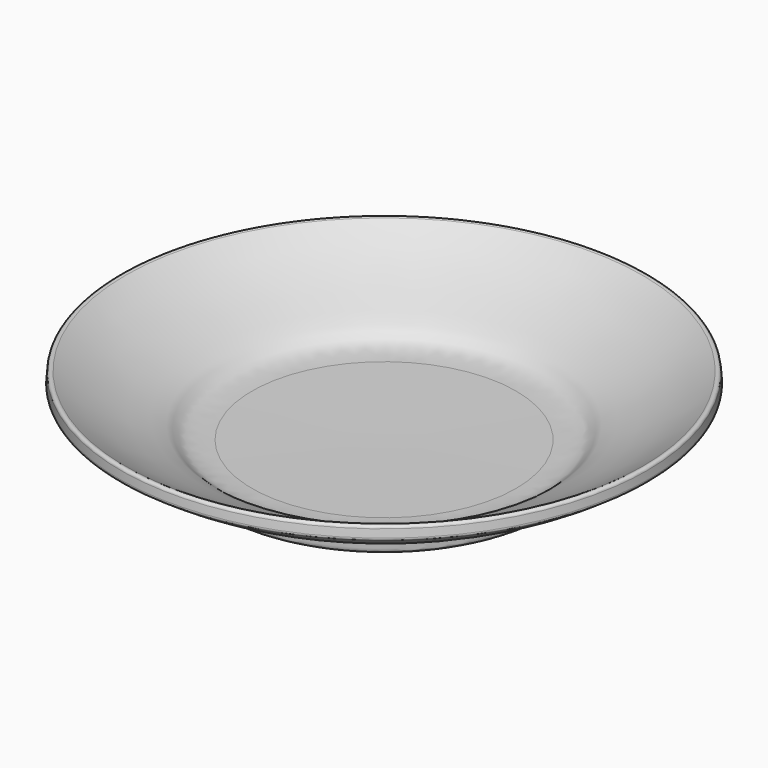
from build123d import *

# Parameters (mm, degrees)
F2_R = 0.1


with BuildPart() as f1:
    # F0 (on Front) → F1 (revolve)
    with BuildSketch(Plane.XZ):
        with BuildLine():
            Line((0, 0.5), (0, 0))
            Line((0, 0), (5, 0))
            add(Edge.make_bspline(
                [(5, 0), (5.8585440212, 0), (5.1383011794, 0.7817476), (7.3014419601, 1.0059741805), (9, 2.2289193865)],
                knots=[0, 0, 0, 0, 0.3184676265, 1, 1, 1, 1], degree=3))
            Line((9, 2.2289193865), (8.9548144001, 2.7268734622))
            add(Edge.make_bspline(
                [(4.4996425443, 0.5567183738), (5.4875025513, 0.5567183738), (5.401553443, 1.1088618921), (7.3014419601, 1.5059741805), (8.9548144001, 2.7268734622)],
                knots=[0, 0, 0, 0, 0.3672697761, 1, 1, 1, 1], degree=3))
            Line((4.4996425443, 0.5567183738), (0, 0.5))
        make_face()
    revolve(axis=Axis((0, 0, 0.25), (0, 0, 1)))

    # F2
    f2_edges = [f1.edges().sort_by_distance(p)[0] for p in [
        (-8.954814, 0, 2.726873),
        (-9, 0, 2.228919),
        (-4.499643, 0, 0.556718),
    ]]
    fillet(f2_edges, radius=F2_R)


solid = f1.part
